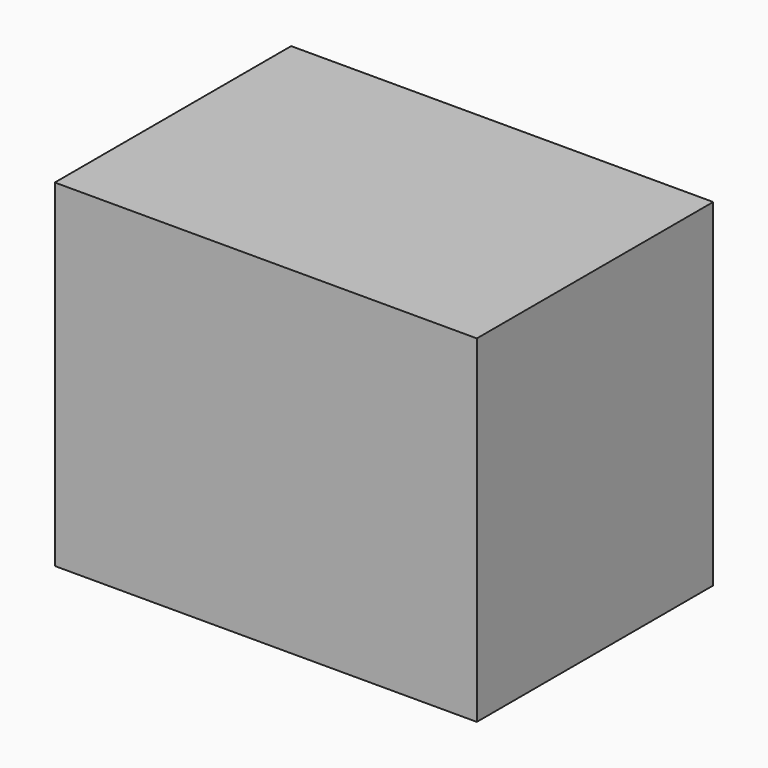
from build123d import *

# Parameters (mm, degrees)
F0_W     = 1219.2
F0_H     = 2133.6
F0_W_2   = 609.6
F1_DEPTH = 2438.4
F2_T     = -25.4


with BuildPart() as f1:
    # F0 (on Top) → F1 (new body)
    with BuildSketch(Plane.XY):
        with Locations((-609.6, -1066.8)):
            Rectangle(F0_W, F0_H)
        with Locations((-1828.8, -1066.8)):
            Rectangle(F0_W, F0_H)
        with Locations((-2743.2, -1066.8)):
            Rectangle(F0_W_2, F0_H)
    extrude(amount=F1_DEPTH)

    # F2
    f2_openings = [f1.faces().sort_by_distance(p)[0] for p in [
        (-1524, -1066.8, 0),
    ]]
    offset(amount=F2_T, openings=f2_openings)


solid = f1.part
